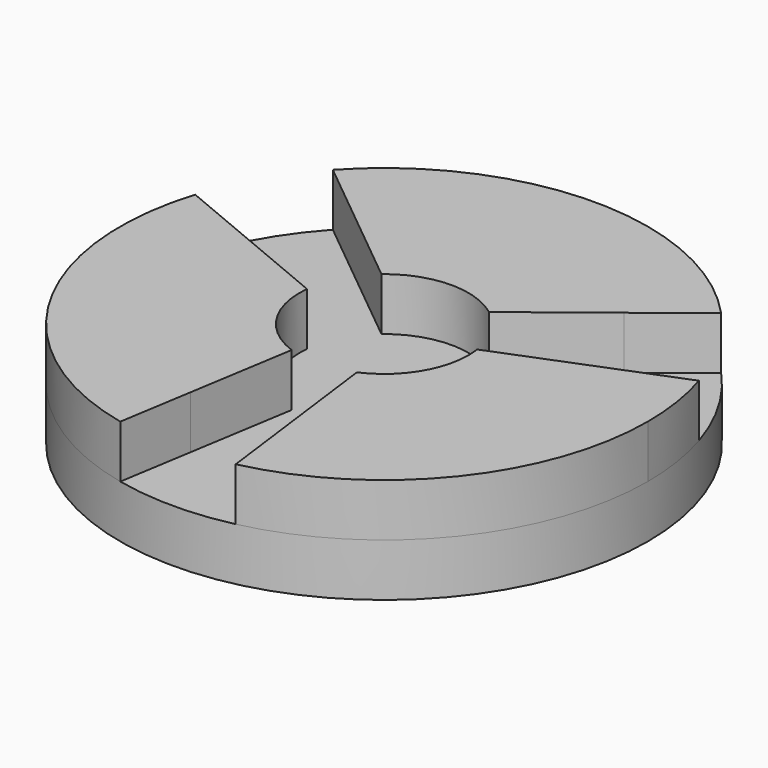
from build123d import *

# Parameters (mm, degrees)
F0_R     = 25
F1_DEPTH = 5
F3_DEPTH = 5


with BuildPart() as f1:
    # F0 (on Top) → F1 (new body)
    with BuildSketch(Plane.XY):
        Circle(F0_R)
    extrude(amount=F1_DEPTH)

    # F2 (on face) → F3 (join)
    with BuildSketch(Plane.XY.offset(5)):
        with BuildLine():
            Line((-12.9607382676, 12.5), (12.7259990671, 12.5))
            Line((12.7259990671, 12.5), (18.3933778606, 16.9317350227))
            ThreePointArc((18.3933778606, 16.9317350227), (0, 25), (-18.3933778606, 16.9317350227))
            Line((-18.3933778606, 16.9317350227), (-12.9607382676, 12.5))
        make_face()
        with BuildLine():
            ThreePointArc((-5.1461254396, 6.1251443215), (-0.1811107496, 7.9979496683), (4.8635891916, 6.3518107793))
            Line((4.8635891916, 6.3518107793), (12.7259990671, 12.5))
            Line((12.7259990671, 12.5), (-12.9607382676, 12.5))
            Line((-12.9607382676, 12.5), (-5.1461254396, 6.1251443215))
        make_face()
        with BuildLine():
            Line((17.216107491, 4.8191728829), (7.9212049105, 1.1200503406))
            ThreePointArc((7.9212049105, 1.1200503406), (7.9802769151, 0.5614092606), (8, 0))
            ThreePointArc((8, 0), (6.7125712299, -4.3521704336), (3.2646531292, -7.3035635101))
            Line((3.2646531292, -7.3035635101), (4.5330306651, -17.1485605759))
            Line((4.5330306651, -17.1485605759), (17.216107491, 4.8191728829))
        make_face()
        with BuildLine():
            Line((23.8600015901, 7.4632649773), (17.216107491, 4.8191728829))
            Line((17.216107491, 4.8191728829), (4.5330306651, -17.1485605759))
            Line((4.5330306651, -17.1485605759), (5.4666237295, -24.395))
            ThreePointArc((5.4666237295, -24.395), (19.5149377816, -15.6258504851), (25, 0))
            ThreePointArc((25, 0), (24.7133571146, 3.774914585), (23.8600015901, 7.4632649773))
        make_face()
        with BuildLine():
            ThreePointArc((-2.7353468708, -7.5178372885), (-6.7810309466, -4.2447166339), (-7.957398227, 0.8245080093))
            Line((-7.957398227, 0.8245080093), (-17.1176040253, 4.6485598758))
            Line((-17.1176040253, 4.6485598758), (-4.3462640059, -17.4720499187))
            Line((-4.3462640059, -17.4720499187), (-2.7353468708, -7.5178372885))
        make_face()
        with BuildLine():
            Line((-4.3462640059, -17.4720499187), (-17.1176040253, 4.6485598758))
            Line((-17.1176040253, 4.6485598758), (-23.8600015901, 7.4632649773))
            ThreePointArc((-23.8600015901, 7.4632649773), (-21.6506350946, -12.5), (-5.4666237295, -24.395))
            Line((-5.4666237295, -24.395), (-4.3462640059, -17.4720499187))
        make_face()
    extrude(amount=F3_DEPTH)


solid = f1.part
